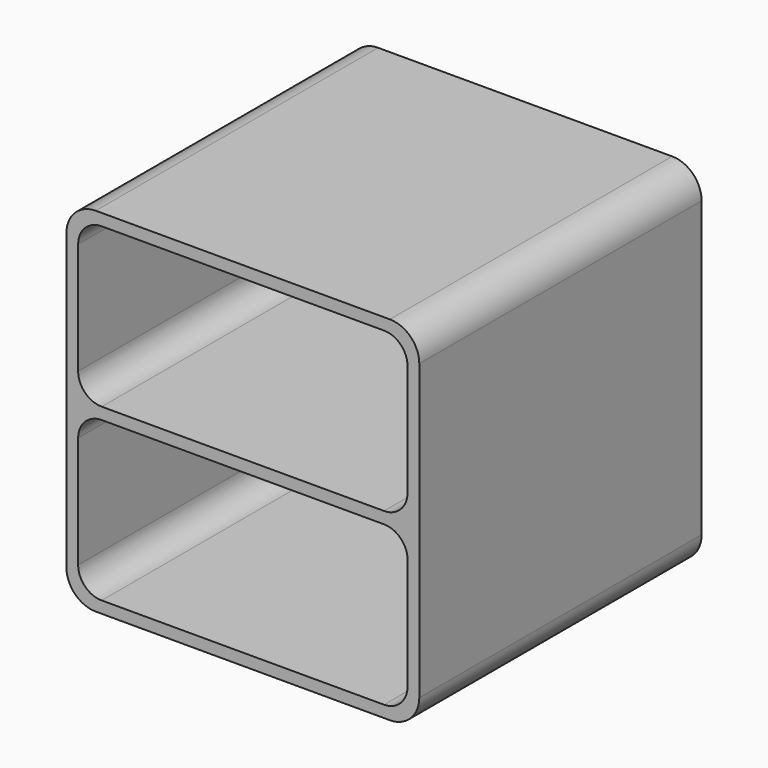
from build123d import *

# Parameters (mm, degrees)
F0_W     = 300
F0_H     = 300
F0_W_2   = 280
F0_H_2   = 135
F1_DEPTH = 300
F2_R     = 20
F3_R     = 25


with BuildPart() as f1:
    # F0 (on Front) → F1 (new body)
    with BuildSketch(Plane.XZ):
        with Locations((150, 150)):
            Rectangle(F0_W, F0_H)
        with Locations((150, 77.5)):
            Rectangle(F0_W_2, F0_H_2, mode=Mode.SUBTRACT)
        with Locations((150, 222.5)):
            Rectangle(F0_W_2, F0_H_2, mode=Mode.SUBTRACT)
    extrude(amount=F1_DEPTH)

    # F2
    f2_edges = [f1.edges().sort_by_distance(p)[0] for p in [
        (10, -150, 290),
        (10, -150, 145),
        (290, -150, 290),
        (290, -150, 145),
        (10, -150, 155),
        (290, -150, 155),
        (290, -150, 10),
        (10, -150, 10),
    ]]
    fillet(f2_edges, radius=F2_R)

    # F3
    f3_edges = [f1.edges().sort_by_distance(p)[0] for p in [
        (0, -150, 300),
        (300, -150, 300),
        (300, -150, 0),
        (0, -150, 0),
    ]]
    fillet(f3_edges, radius=F3_R)


solid = f1.part
